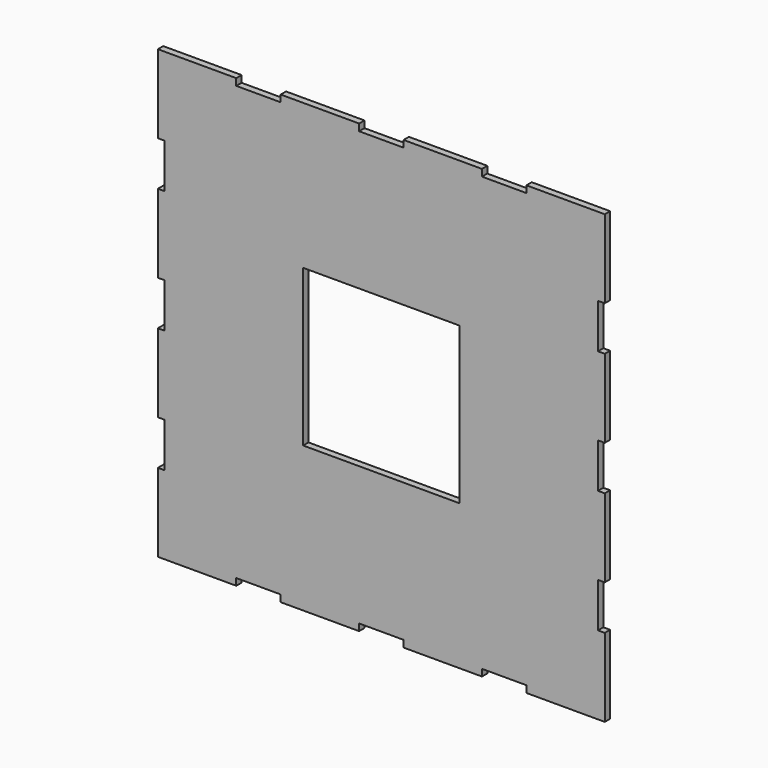
from build123d import *

# Parameters (mm, degrees)
F0_W     = 70
F0_H     = 70
F1_DEPTH = 3


with BuildPart() as f1:
    # F0 (on Front) → F1 (new body)
    with BuildSketch(Plane.XZ):
        Polygon((64.925, -100), (100, -100), (100, -64.925), (96.95, -64.925), (96.95, -45.025), (100, -45.025), (100, -9.95), (96.95, -9.95), (96.95, 9.95), (100, 9.95), (100, 45.025), (96.95, 45.025), (96.95, 64.925), (100, 64.925), (100, 100), (64.925, 100), (64.925, 96.95), (45.025, 96.95), (45.025, 100), (9.95, 100), (9.95, 96.95), (-9.95, 96.95), (-9.95, 100), (-45.025, 100), (-45.025, 96.95), (-64.925, 96.95), (-64.925, 100), (-100, 100), (-100, 64.925), (-96.95, 64.925), (-96.95, 45.025), (-100, 45.025), (-100, 9.95), (-96.95, 9.95), (-96.95, -9.95), (-100, -9.95), (-100, -45.025), (-96.95, -45.025), (-96.95, -64.925), (-100, -64.925), (-100, -100), (-64.925, -100), (-64.925, -96.95), (-45.025, -96.95), (-45.025, -100), (-9.95, -100), (-9.95, -96.95), (9.95, -96.95), (9.95, -100), (45.025, -100), (45.025, -96.95), (64.925, -96.95), align=None)
        Rectangle(F0_W, F0_H, mode=Mode.SUBTRACT)
    extrude(amount=F1_DEPTH)


solid = f1.part
